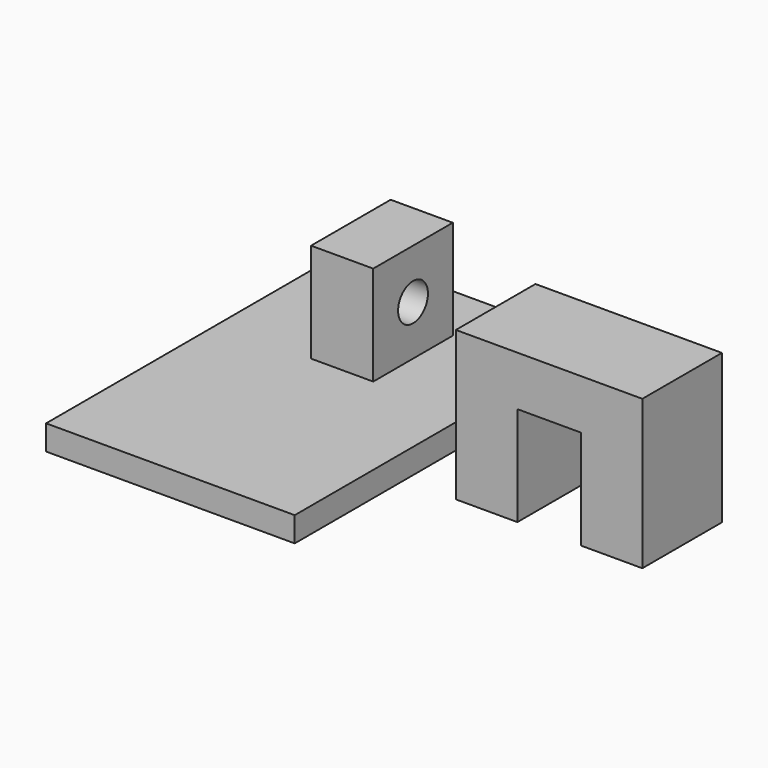
from build123d import *

# Parameters (mm, degrees)
F0_W           = 20
F0_H           = 30
F1_DEPTH       = 2
F2_W           = 5
F2_H           = 8
F3_DEPTH       = 8
F4_R           = 1.5
F5_DEPTH       = 25
F5_DEPTH_BACK  = 25
F9_W           = 15
F9_H           = 8
F10_DEPTH      = 12
F11_W          = 5.1
F11_H          = 8
F12_DEPTH      = 25
F12_DEPTH_BACK = 25


with BuildPart() as f1:
    # F0 (on Top) → F1 (new body)
    with BuildSketch(Plane.XY):
        Rectangle(F0_W, F0_H)
    extrude(amount=F1_DEPTH)

    # F2 (on face) → F3 (join)
    with BuildSketch(Plane.XY.offset(2)):
        with Locations((0, 6.2686726451)):
            Rectangle(F2_W, F2_H)
    extrude(amount=F3_DEPTH)


with BuildPart() as f3:
    # F2 (on face) → F3, piece 2 (new body)
    with BuildSketch(Plane.XY.offset(2)):
        with Locations((16.2088256329, 6.2686726451)):
            Rectangle(F2_W, F2_H)
    extrude(amount=F3_DEPTH)


with BuildPart() as f5_tool:
    # F4 (on face) → F5 (new body, two sides)
    with BuildSketch(Plane.YZ.offset(2.5)) as f5_sk:
        with Locations((6.2686726451, 6)):
            Circle(F4_R)
    extrude(amount=-F5_DEPTH)
    extrude(f5_sk.sketch, amount=F5_DEPTH_BACK)


with BuildPart() as f1_1:
    add(f1.part)

    # F5: cut by f5_tool
    add(f5_tool.part, mode=Mode.SUBTRACT)


with BuildPart() as f3_1:
    add(f3.part)

    # F5: cut by f5_tool
    add(f5_tool.part, mode=Mode.SUBTRACT)


with BuildPart() as f6_1:
    # F6: copy of F3
    add(f3_1.part)


with BuildPart() as f10:
    # F9 (on Top) → F10 (new body)
    with BuildSketch(Plane.XY):
        with Locations((21.6618329287, 0)):
            Rectangle(F9_W, F9_H)
    extrude(amount=F10_DEPTH)

    # F11 (on face) → F12 (cut, two sides)
    with BuildSketch(Plane.XZ.offset(4)) as f12_sk:
        with Locations((21.6618329287, 4)):
            Rectangle(F11_W, F11_H)
    extrude(amount=-F12_DEPTH, mode=Mode.SUBTRACT)
    extrude(f12_sk.sketch, amount=F12_DEPTH_BACK, mode=Mode.SUBTRACT)


solid = Compound([f1_1.part, f10.part])
